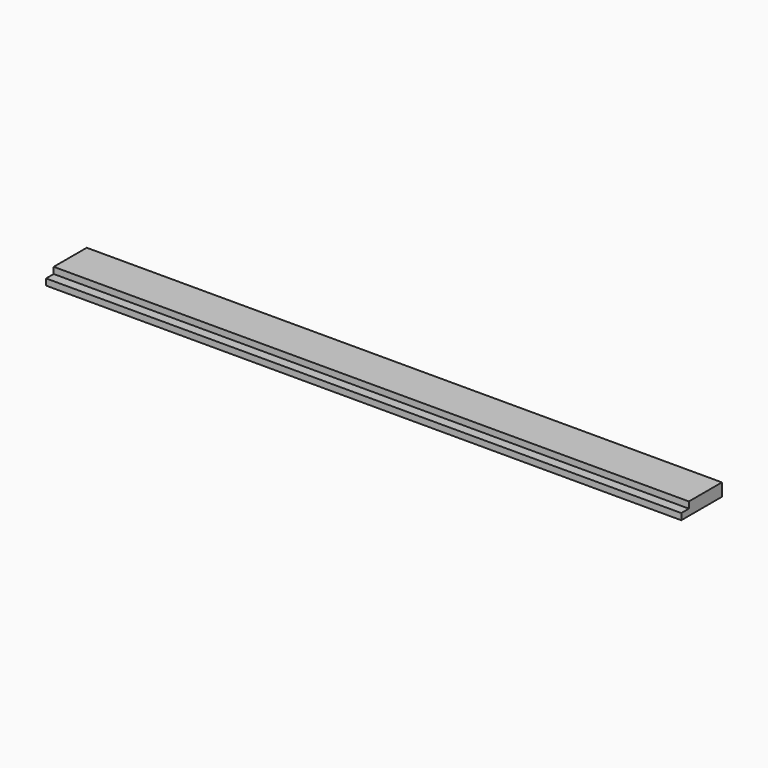
from build123d import *

# Parameters (mm, degrees)
F0_W      = 1270
F0_H      = 82.55
F1_DEPTH  = 12.7
F0_H_2    = 19.05
F1_FACE_W = 1270
F1_FACE_H = 82.55
F2_DEPTH  = 12.7


with BuildPart() as f1:
    # F0 (on Top) → F1 (new body)
    with BuildSketch(Plane.XY):
        with Locations((378.964252, 18.430763)):
            Rectangle(F0_W, F0_H)
    extrude(amount=F1_DEPTH)

    # F0 (on Top) + F1_face (on face) → F2 (join)
    with BuildSketch(Plane.XY):
        with Locations((378.964252, 18.430763)):
            Rectangle(F0_W, F0_H)
        with Locations((378.964252, -32.369237)):
            Rectangle(F0_W, F0_H_2)
    with BuildSketch(Plane(origin=(378.964252, 18.430763, 12.7), x_dir=(1, 0, 0), z_dir=(0, 0, 1))):
        Rectangle(F1_FACE_W, F1_FACE_H)
    extrude(amount=F2_DEPTH)


solid = f1.part
